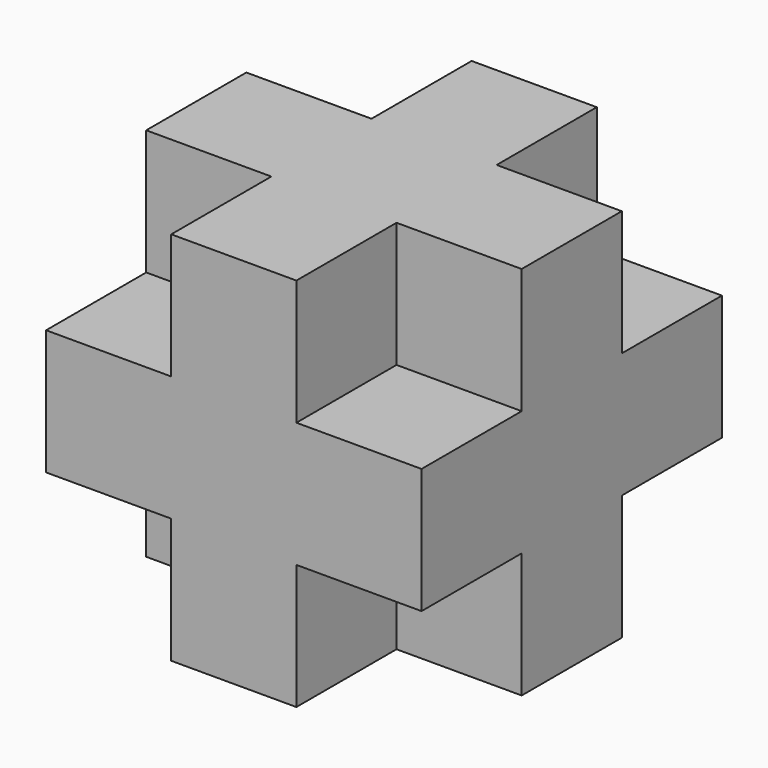
from build123d import *

# Parameters (mm, degrees)
F0_W     = 90
F0_H     = 90
F1_DEPTH = 90
F3_W     = 30
F3_H     = 30
F4_DEPTH = 30
F2_W     = 30
F2_H     = 30
F5_DEPTH = 30


with BuildPart() as f1:
    # F0 (on Top) → F1 (new body)
    with BuildSketch(Plane.XY):
        Rectangle(F0_W, F0_H)
    extrude(amount=F1_DEPTH)

    # F3 (on face) → F4 (cut)
    with BuildSketch(Plane.XY.offset(90)):
        with Locations((-30, -30)):
            Rectangle(F3_W, F3_H)
        with Locations((-30, 30)):
            Rectangle(F3_W, F3_H)
        with Locations((30, 30)):
            Rectangle(F3_W, F3_H)
        with Locations((30, -30)):
            Rectangle(F3_W, F3_H)
    extrude(amount=-F4_DEPTH, mode=Mode.SUBTRACT)

    # F2 (on Top) → F5 (cut)
    with BuildSketch(Plane.XY):
        with Locations((30, 30)):
            Rectangle(F2_W, F2_H)
        with Locations((-30, 30)):
            Rectangle(F2_W, F2_H)
        with Locations((-30, -30)):
            Rectangle(F2_W, F2_H)
        with Locations((30, -30)):
            Rectangle(F2_W, F2_H)
    extrude(amount=F5_DEPTH, mode=Mode.SUBTRACT)


solid = f1.part
